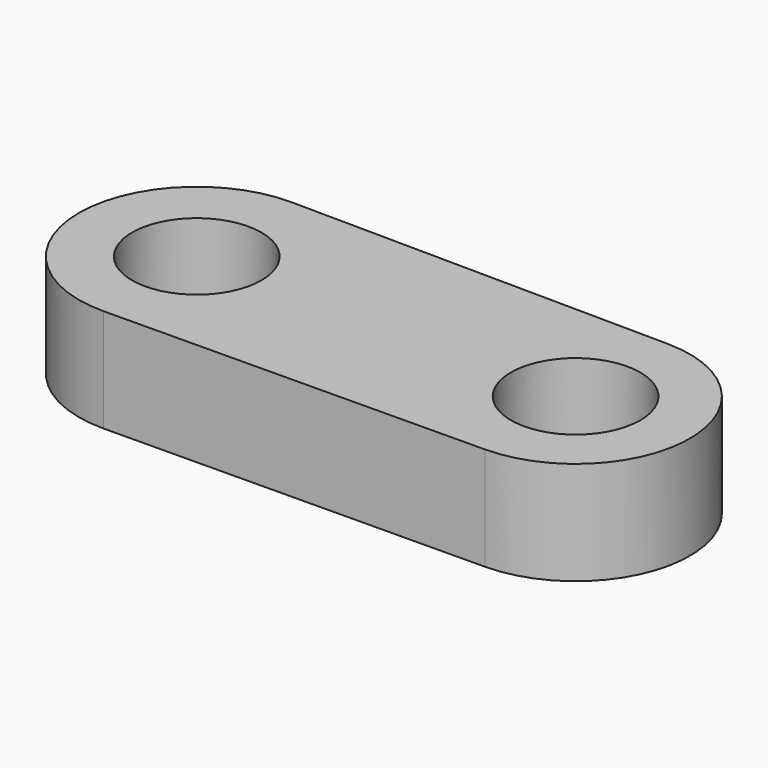
from build123d import *

# Parameters (mm, degrees)
F0_R     = 15.920661
F1_DEPTH = 25.4


with BuildPart() as f1:
    # F0 (on Top) → F1 (new body)
    with BuildSketch(Plane.XY):
        with BuildLine():
            ThreePointArc((-46.308367, -28.973528), (-17.604609, 0), (-46.308367, 28.973528))
            ThreePointArc((-46.308367, 28.973528), (-75.554202, 0), (-46.308367, -28.973528))
        make_face()
        with Locations((-46.579406, 0)):
            Circle(F0_R, mode=Mode.SUBTRACT)
        with BuildLine():
            Line((46.842293, 28.102132), (-46.308367, 28.973528))
            ThreePointArc((-46.308367, 28.973528), (-17.604609, 0), (-46.308367, -28.973528))
            Line((-46.308367, -28.973528), (46.842293, -28.102132))
            ThreePointArc((46.842293, -28.102132), (74.682768, 0), (46.842293, 28.102132))
        make_face()
        with Locations((46.579406, 0)):
            Circle(F0_R, mode=Mode.SUBTRACT)
    extrude(amount=F1_DEPTH)


solid = f1.part
